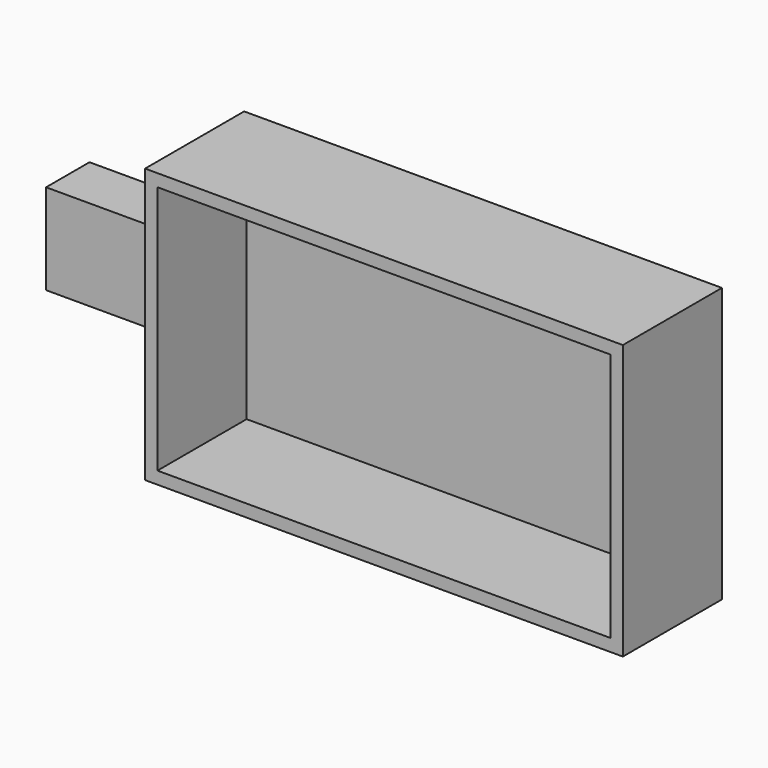
from build123d import *

# Parameters (mm, degrees)
F0_W     = 98.002754
F0_H     = 56.256722
F1_DEPTH = 25.4
F2_T     = -2.54
F3_W     = 11.132365
F3_H     = 18.58267
F4_DEPTH = 27.40012


with BuildPart() as f1:
    # F0 (on Front) → F1 (new body)
    with BuildSketch(Plane.XZ):
        Rectangle(F0_W, F0_H)
    extrude(amount=F1_DEPTH)

    # F2
    f2_openings = [f1.faces().sort_by_distance(p)[0] for p in [
        (0, -25.4, 0),
    ]]
    offset(amount=F2_T, openings=f2_openings)

    # F3 (on face) → F4 (join)
    with BuildSketch(Plane.YZ.offset(-46.461377)):
        with Locations((-14.144399, 5.063872)):
            Rectangle(F3_W, F3_H)
    extrude(amount=-F4_DEPTH)


solid = f1.part
